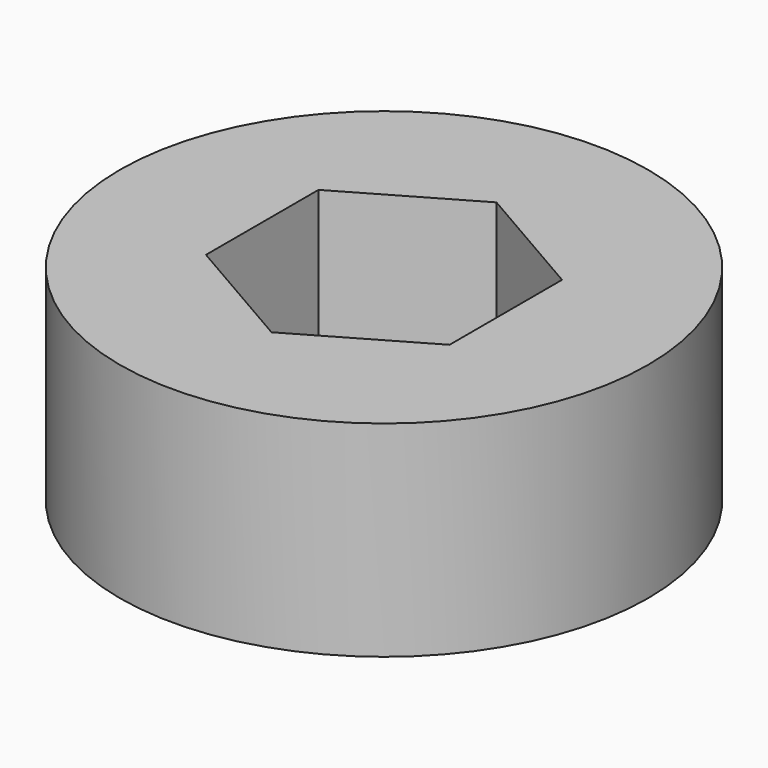
from build123d import *

# Parameters (mm, degrees)
F0_R     = 9
F0_R_2   = 2.75
F1_DEPTH = 7
F3_DEPTH = 5


with BuildPart() as f1:
    # F0 (on Top) → F1 (new body)
    with BuildSketch(Plane.XY):
        Circle(F0_R)
        Circle(F0_R_2, mode=Mode.SUBTRACT)
    extrude(amount=F1_DEPTH)

    # F2 (on face) → F3 (cut)
    with BuildSketch(Plane.XY.offset(7)):
        Polygon((-4.15, 2.396004), (-4.15, -2.396004), (0, -4.792007), (4.15, -2.396004), (4.15, 2.396004), (0, 4.792007), align=None)
    extrude(amount=-F3_DEPTH, mode=Mode.SUBTRACT)


solid = f1.part
